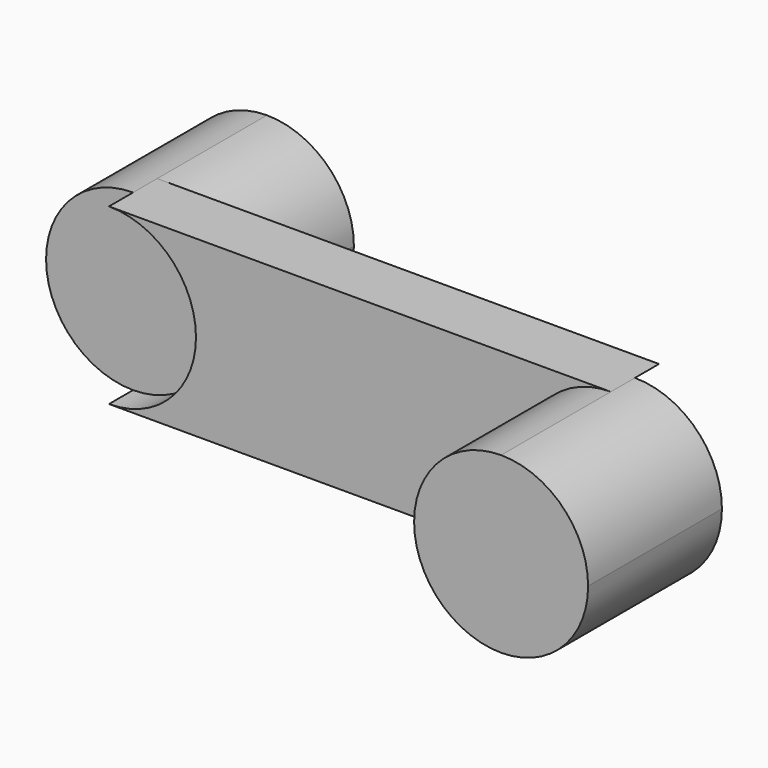
from build123d import *

# Parameters (mm, degrees)
F1_DEPTH = 25
F2_DEPTH = 25
F3_DEPTH = 4.5


with BuildPart() as f1:
    # F0 (on Front) → F1 (new body)
    with BuildSketch(Plane.XZ):
        with BuildLine():
            ThreePointArc((0, -13), (9.192388, -9.192388), (13, 0))
            ThreePointArc((13, 0), (9.192388, 9.192388), (0, 13))
            ThreePointArc((0, 13), (-13, 0), (0, -13))
        make_face()
    extrude(amount=-F1_DEPTH)


with BuildPart() as f2:
    # F0 (on Front) → F2 (new body)
    with BuildSketch(Plane.XZ):
        with BuildLine():
            ThreePointArc((88, 0), (84.192388, 9.192388), (75, 13))
            ThreePointArc((75, 13), (62, 0), (75, -13))
            ThreePointArc((75, -13), (84.192388, -9.192388), (88, 0))
        make_face()
    extrude(amount=F2_DEPTH)


with BuildPart() as f3:
    # F0 (on Front) → F3 (new body, symmetric)
    with BuildSketch(Plane.XZ):
        with BuildLine():
            ThreePointArc((0, 13), (9.192388, 9.192388), (13, 0))
            ThreePointArc((13, 0), (9.192388, -9.192388), (0, -13))
            Line((0, -13), (75, -13))
            ThreePointArc((75, -13), (62, 0), (75, 13))
            Line((75, 13), (0, 13))
        make_face()
    extrude(amount=F3_DEPTH, both=True)


solid = Compound([f1.part, f2.part, f3.part])
